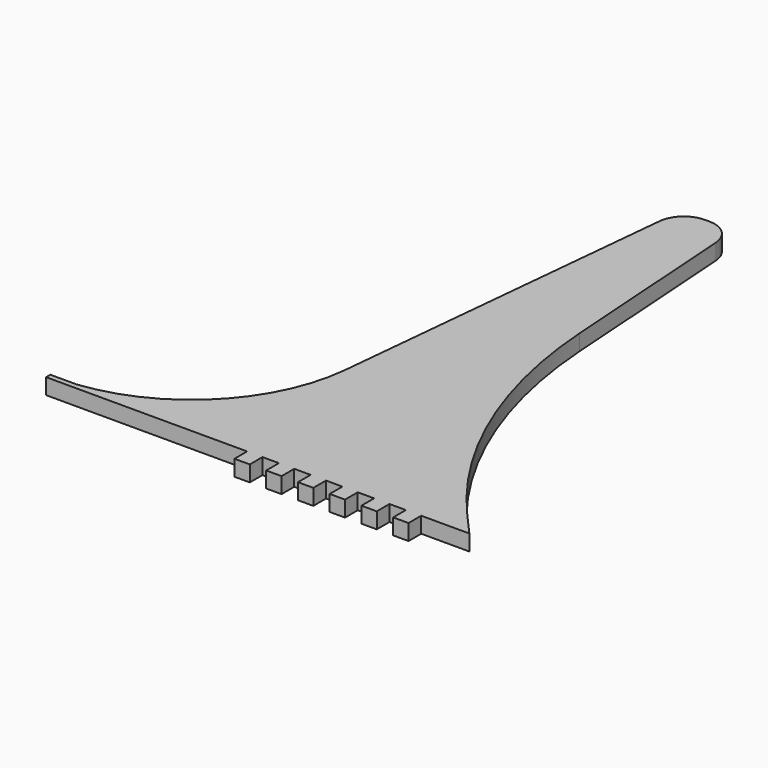
from build123d import *

# Parameters (mm, degrees)
PAD_DEPTH           = 3
FILLET_R            = 5
FILLET001_R         = 5
SKETCH001_W         = 2.9
SKETCH001_H         = 3
PAD001_DEPTH        = 3
LINEARPATTERN_COUNT = 6
LINEARPATTERN_PITCH = 6


with BuildPart() as part:
    # Sketch → Pad (new body)
    with BuildSketch(Plane.XY):
        with BuildLine():
            Line((-80, -29.392822), (0, -29.392822))
            Line((-3.899435, -25.004208), (0, -29.392822))
            ThreePointArc((-27.274722, 30.700125), (-20.212397, 0.907029), (-3.899435, -25.004208))
            Line((-30, 70.607178), (-27.274722, 30.700125))
            Line((-30, 70.607178), (-40, 70.607178))
            Line((-40, 70.607178), (-46.966643, 0))
            ThreePointArc((-75, -28.392822), (-55.956109, -19.159977), (-46.966643, 0))
            Line((-75, -28.392822), (-80, -28.392822))
            Line((-80, -28.392822), (-80, -29.392822))
        make_face()
    extrude(amount=PAD_DEPTH)

    # Fillet
    fillet_edges = [part.edges().sort_by_distance(p)[0] for p in [
        (-40, 70.607178, 1.5),
    ]]
    fillet(fillet_edges, radius=FILLET_R)

    # Fillet001
    fillet001_edges = [part.edges().sort_by_distance(p)[0] for p in [
        (-30, 70.607178, 1.5),
    ]]
    fillet(fillet001_edges, radius=FILLET001_R)

    # Sketch001 → Pad001 (new body)
    with BuildSketch(Plane.XZ.offset(29.392822)):
        with Locations((-40.55, 1.5)):
            Rectangle(SKETCH001_W, SKETCH001_H)
    pad001 = extrude(amount=PAD001_DEPTH)

    # LinearPattern: Pad001 ×6
    with Locations(*[(i * LINEARPATTERN_PITCH, 0, 0) for i in range(1, LINEARPATTERN_COUNT)]):
        add(pad001)


solid = part.part
